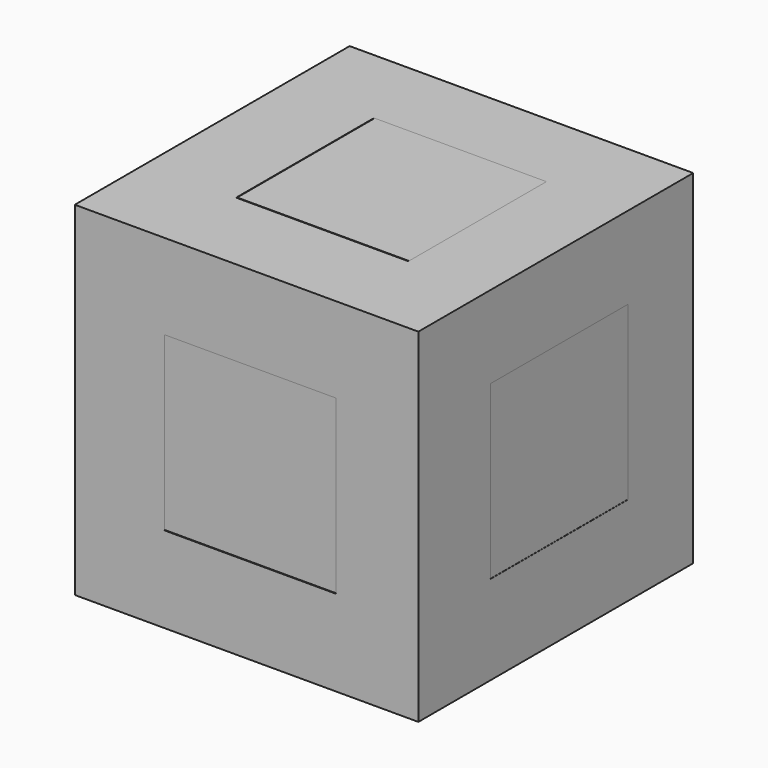
from build123d import *

# Parameters (mm, degrees)
F0_W      = 25.4
F0_H      = 25.4
F1_DEPTH  = 25.4
F2_W      = 12.7
F2_H      = 12.7
F3_DEPTH  = 3.175
F4_W      = 12.7
F4_H      = 12.7
F5_DEPTH  = 3.175
F6_W      = 12.7
F6_H      = 12.7
F7_DEPTH  = 3.175
F8_W      = 12.7
F8_H      = 12.7
F9_DEPTH  = 3.175
F10_W     = 12.7
F10_H     = 12.7
F11_DEPTH = 3.175
F12_W     = 12.7
F12_H     = 12.7
F13_DEPTH = 3.175
F14_W     = 12.7
F14_H     = 12.7
F15_DEPTH = 3.175
F16_W     = 12.7
F16_H     = 12.7
F17_DEPTH = 3.175
F18_W     = 12.7
F18_H     = 12.7
F19_DEPTH = 3.175
F20_W     = 12.7
F20_H     = 12.7
F21_DEPTH = 3.175
F22_W     = 12.7
F22_H     = 12.7
F23_DEPTH = 3.175
F24_W     = 12.7
F24_H     = 12.7
F25_DEPTH = 3.175


with BuildPart() as f1:
    # F0 (on Top) → F1 (new body)
    with BuildSketch(Plane.XY):
        with Locations((-0.575614, 13.121569)):
            Rectangle(F0_W, F0_H)
    extrude(amount=F1_DEPTH)

    # F2 (on face) → F3 (cut)
    with BuildSketch(Plane.XY.offset(25.4)):
        with Locations((-0.206075, 13.283891)):
            Rectangle(F2_W, F2_H)
    extrude(amount=-F3_DEPTH, mode=Mode.SUBTRACT)

    # F4 (on face) → F5 (cut)
    with BuildSketch(Plane(origin=(0, 0, 0), x_dir=(1, 0, 0), z_dir=(0, 0, -1))):
        with Locations((-0.575613, -13.121569)):
            Rectangle(F4_W, F4_H)
    extrude(amount=-F5_DEPTH, mode=Mode.SUBTRACT)

    # F6 (on face) → F7 (cut)
    with BuildSketch(Plane.XZ.offset(-0.421569)):
        with Locations((-0.30291, 12.710209)):
            Rectangle(F6_W, F6_H)
    extrude(amount=-F7_DEPTH, mode=Mode.SUBTRACT)

    # F8 (on face) → F9 (cut)
    with BuildSketch(Plane.YZ.offset(12.124386)):
        with Locations((13.424395, 12.947716)):
            Rectangle(F8_W, F8_H)
    extrude(amount=-F9_DEPTH, mode=Mode.SUBTRACT)

    # F10 (on face) → F11 (cut)
    with BuildSketch(Plane(origin=(0, 25.821569, 0), x_dir=(-1, 0, 0), z_dir=(0, 1, 0))):
        with Locations((0.822462, 12.703338)):
            Rectangle(F10_W, F10_H)
    extrude(amount=-F11_DEPTH, mode=Mode.SUBTRACT)

    # F12 (on face) → F13 (cut)
    with BuildSketch(Plane(origin=(-13.275614, 0, 0), x_dir=(0, -1, 0), z_dir=(-1, 0, 0))):
        with Locations((-12.962908, 12.731511)):
            Rectangle(F12_W, F12_H)
    extrude(amount=-F13_DEPTH, mode=Mode.SUBTRACT)


with BuildPart() as f15:
    # F14 (on face) → F15 (new body)
    with BuildSketch(Plane.XY.offset(22.225)):
        with Locations((-0.168473, 13.333316)):
            Rectangle(F14_W, F14_H)
    extrude(amount=F15_DEPTH)


with BuildPart() as f17:
    # F16 (on face) → F17 (new body)
    with BuildSketch(Plane.XZ.offset(-3.596569)):
        with Locations((-0.304332, 12.747079)):
            Rectangle(F16_W, F16_H)
    extrude(amount=F17_DEPTH)


with BuildPart() as f19:
    # F18 (on face) → F19 (new body)
    with BuildSketch(Plane.YZ.offset(8.949386)):
        with Locations((13.426993, 12.957202)):
            Rectangle(F18_W, F18_H)
    extrude(amount=F19_DEPTH)


with BuildPart() as f21:
    # F20 (on face) → F21 (new body)
    with BuildSketch(Plane(origin=(0, 22.646569, 0), x_dir=(-1, 0, 0), z_dir=(0, 1, 0))):
        with Locations((0.841133, 12.798705)):
            Rectangle(F20_W, F20_H)
    extrude(amount=F21_DEPTH)


with BuildPart() as f23:
    # F22 (on face) → F23 (new body)
    with BuildSketch(Plane(origin=(-10.100614, 0, 0), x_dir=(0, -1, 0), z_dir=(-1, 0, 0))):
        with Locations((-13.066313, 12.607197)):
            Rectangle(F22_W, F22_H)
    extrude(amount=F23_DEPTH)


with BuildPart() as f25:
    # F24 (on face) → F25 (new body)
    with BuildSketch(Plane(origin=(0, 0, 3.175), x_dir=(1, 0, 0), z_dir=(0, 0, -1))):
        with Locations((-0.667782, -13.140953)):
            Rectangle(F24_W, F24_H)
    extrude(amount=F25_DEPTH)


solid = Compound([f1.part, f15.part, f17.part, f19.part, f21.part, f23.part, f25.part])
